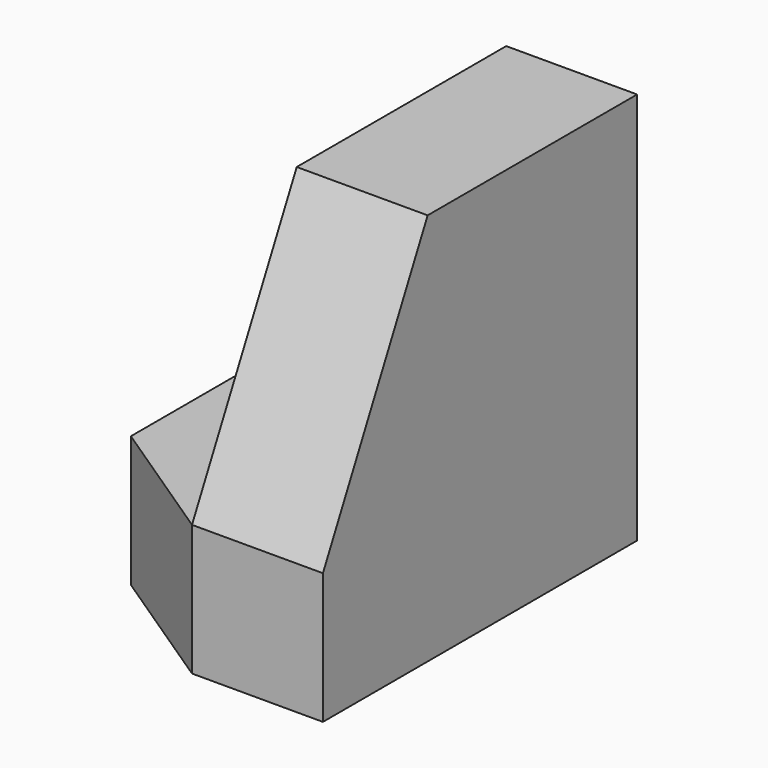
from build123d import *

# Parameters (mm, degrees)
F1_DEPTH = 38.1
F3_DEPTH = 12.7
F5_DEPTH = 12.7
F6_DEPTH = 25.4
F8_DEPTH = 12.7


with BuildPart() as f1:
    # F0 (on Front) → F1 (new body)
    with BuildSketch(Plane.XZ):
        Polygon((0, 12.7), (0, 0), (25.4, 0), (25.4, 38.1), (12.7, 38.1), (12.7, 12.7), align=None)
    extrude(amount=F1_DEPTH)

    # F2 (on face) → F3 (cut)
    with BuildSketch(Plane(origin=(12.7, 0, 0), x_dir=(0, -1, 0), z_dir=(-1, 0, 0))):
        Polygon((38.1, 38.1), (25.4, 38.1), (38.1, 12.7), align=None)
    extrude(amount=-F3_DEPTH, mode=Mode.SUBTRACT)

    # F4 (on face) → F5 (join)
    with BuildSketch(Plane.XY.offset(12.7)):
        Polygon((0, -38.1), (12.7, -38.1), (0, -31.632963568), align=None)
    extrude(amount=F5_DEPTH)

    # F6 (cut): a face of the model
    f6_faces = [f1.faces().sort_by_distance(p)[0] for p in [
        (6.35, -34.866481784, 19.05),
    ]]
    extrude(f6_faces, amount=-F6_DEPTH, mode=Mode.SUBTRACT)

    # F7 (on face) → F8 (cut)
    with BuildSketch(Plane.XY.offset(12.7)):
        Polygon((12.7, -38.1), (0, -29.6376030892), (0, -38.1), align=None)
    extrude(amount=-F8_DEPTH, mode=Mode.SUBTRACT)


solid = f1.part
